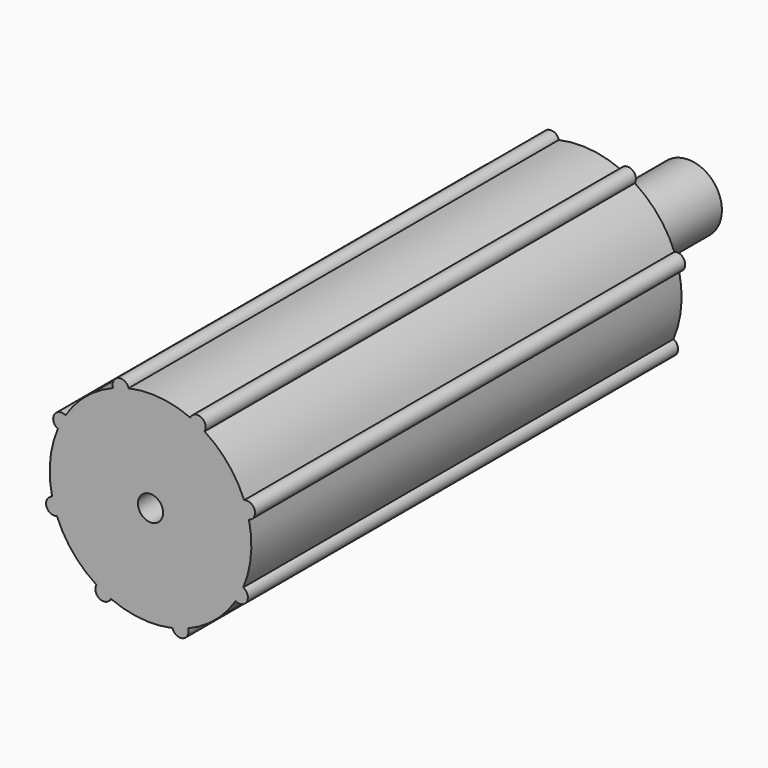
from build123d import *

# Parameters (mm, degrees)
F4_R      = 9.525
F6_DEPTH  = 50.8
F5_R      = 0.7691273294
F7_DEPTH  = 50.8
F8_R      = 0.51181
F10_DEPTH = 9.525
F9_R      = 3.175
F11_DEPTH = 63.5
F12_R     = 1.18745
F13_DEPTH = 69.85


with BuildPart() as f6:
    # F4 (on Front) → F6 (new body)
    with BuildSketch(Plane.XZ):
        Circle(F4_R)
    extrude(amount=-F6_DEPTH)

    # F5 (on Front) → F7 (join)
    with BuildSketch(Plane.XZ):
        with Locations((-2.815608135, 9.0993393073)):
            Circle(F5_R)
        with Locations((4.4432689231, 8.4251401339)):
            Circle(F5_R)
        with Locations((9.0993393073, 2.815608135)):
            Circle(F5_R)
        with Locations((8.4251401339, -4.4432689231)):
            Circle(F5_R)
        with Locations((2.815608135, -9.0993393073)):
            Circle(F5_R)
        with Locations((-4.4432689231, -8.4251401339)):
            Circle(F5_R)
        with Locations((-9.0993393073, -2.815608135)):
            Circle(F5_R)
        with Locations((-8.4251401339, 4.4432689231)):
            Circle(F5_R)
    extrude(amount=-F7_DEPTH)

    # F8 (on Front) → F10 (cut)
    with BuildSketch(Plane.XZ):
        Circle(F8_R)
    extrude(amount=-F10_DEPTH, mode=Mode.SUBTRACT)

    # F9 (on Front) → F11 (join)
    with BuildSketch(Plane.XZ):
        Circle(F9_R)
    extrude(amount=-F11_DEPTH)

    # F12 (on Front) → F13 (cut)
    with BuildSketch(Plane.XZ):
        Circle(F12_R)
    extrude(amount=-F13_DEPTH, mode=Mode.SUBTRACT)


solid = f6.part
